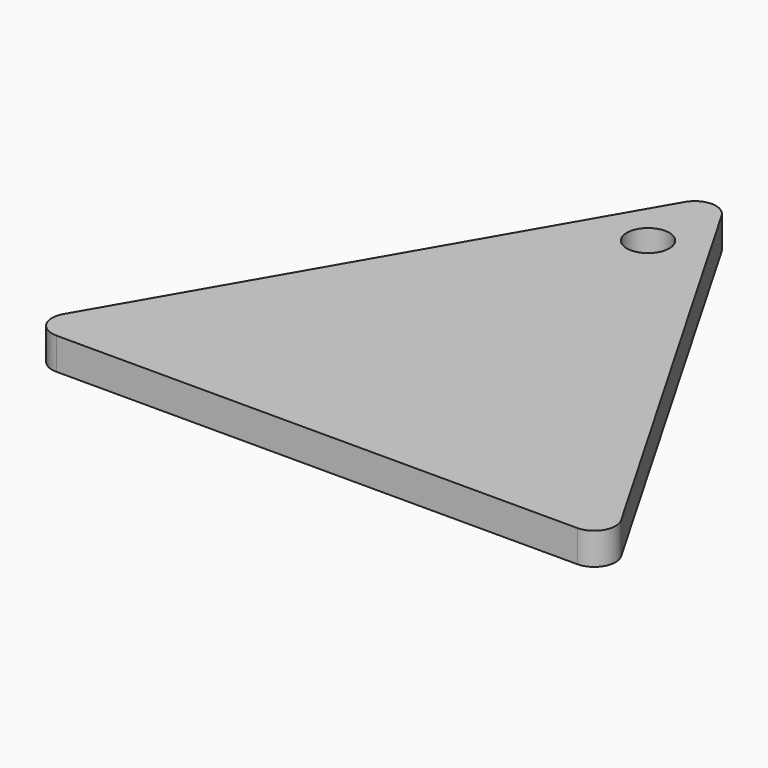
from build123d import *

# Parameters (mm, degrees)
F0_R     = 12.7
F1_DEPTH = 19.05


with BuildPart() as f1:
    # F0 (on Top) → F1 (new body)
    with BuildSketch(Plane.XY):
        with BuildLine():
            ThreePointArc((-166.801477, -133.35), (-166.801477, -146.05), (-155.802955, -152.4))
            Line((-155.802955, -152.4), (155.802955, -152.4))
            ThreePointArc((155.802955, -152.4), (166.801477, -146.05), (166.801477, -133.35))
            Line((166.801477, -133.35), (10.998523, 136.508634))
            ThreePointArc((10.998523, 136.508634), (0, 142.858634), (-10.998523, 136.508634))
            Line((-10.998523, 136.508634), (-166.801477, -133.35))
        make_face()
        with Locations((0, 95.25)):
            Circle(F0_R, mode=Mode.SUBTRACT)
    extrude(amount=F1_DEPTH)


solid = f1.part
